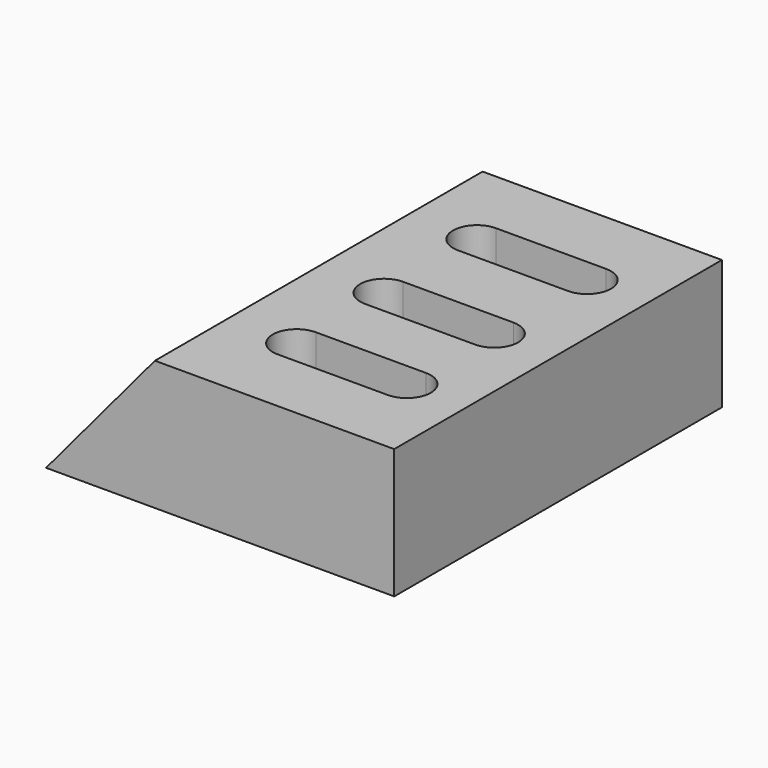
from build123d import *

# Parameters (mm, degrees)
F1_DEPTH = 76.2
F4_DEPTH = 48.26


with BuildPart() as f1:
    # F0 (on Front) → F1 (new body, symmetric)
    with BuildSketch(Plane.XZ):
        Polygon((-100.446516, 48.26), (-140.941464, 0), (-11.401464, 0), (-11.401464, 48.26), align=None)
    extrude(amount=F1_DEPTH, both=True)

    # F3 (on face) + F2 (on face) → F4 (cut)
    with BuildSketch(Plane.XY.offset(48.26)):
        with BuildLine():
            ThreePointArc((-34.14029, 33.02), (-25.25029, 41.91), (-34.14029, 50.8))
            Line((-34.14029, 50.8), (-75.123313, 50.8))
            ThreePointArc((-75.123313, 50.8), (-84.013313, 41.91), (-75.123313, 33.02))
            Line((-75.123313, 33.02), (-34.14029, 33.02))
        make_face()
    with BuildSketch(Plane.XY.offset(48.26)):
        with BuildLine():
            Line((-34.134464, 7.62), (-75.122716, 7.62))
            ThreePointArc((-75.122716, 7.62), (-84.012716, -1.27), (-75.122716, -10.16))
            Line((-75.122716, -10.16), (-34.134464, -10.16))
            ThreePointArc((-34.134464, -10.16), (-25.244464, -1.27), (-34.134464, 7.62))
        make_face()
        with BuildLine():
            Line((-34.134464, -33.02), (-75.122716, -33.02))
            ThreePointArc((-75.122716, -33.02), (-84.012716, -41.91), (-75.122716, -50.8))
            Line((-75.122716, -50.8), (-34.134464, -50.8))
            ThreePointArc((-34.134464, -50.8), (-25.244464, -41.91), (-34.134464, -33.02))
        make_face()
    extrude(amount=-F4_DEPTH, mode=Mode.SUBTRACT)


solid = f1.part
